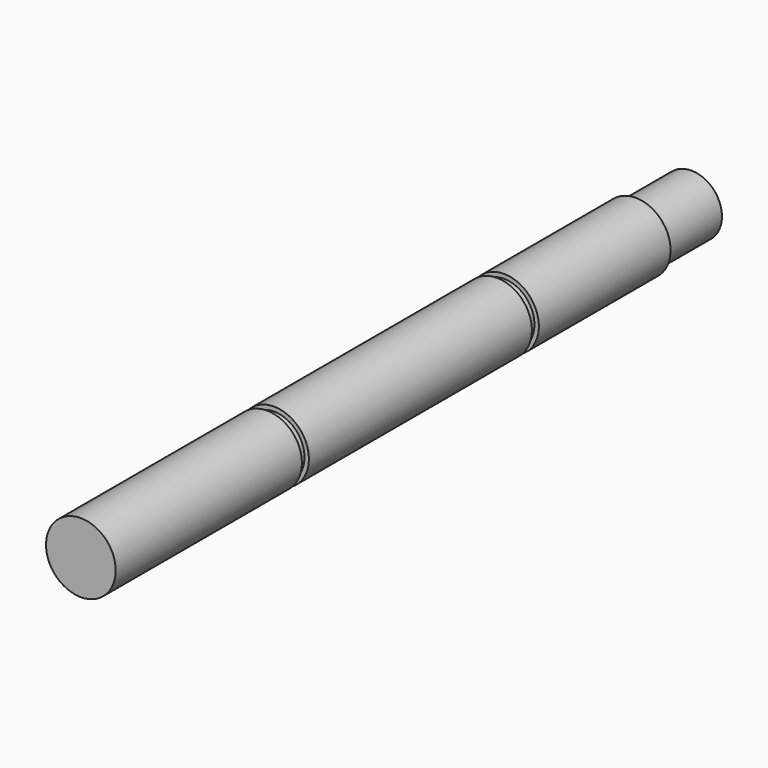
from build123d import *

# Parameters (mm, degrees)
F0_R      = 6.35
F1_DEPTH  = 42.418
F2_R      = 5.55625
F3_DEPTH  = 1.5875
F4_R      = 6.35
F5_DEPTH  = 50.8
F6_R      = 5.55625
F7_DEPTH  = 1.5875
F8_R      = 6.35
F9_DEPTH  = 30.0101
F10_R     = 5.55625
F11_DEPTH = 12.7


with BuildPart() as f1:
    # F0 (on Front) → F1 (new body)
    with BuildSketch(Plane.XZ):
        Circle(F0_R)
    extrude(amount=F1_DEPTH)

    # F2 (on face) → F3 (join)
    with BuildSketch(Plane(origin=(0, 0, 0), x_dir=(-1, 0, 0), z_dir=(0, 1, 0))):
        Circle(F2_R)
    extrude(amount=F3_DEPTH)

    # F4 (on face) → F5 (join)
    with BuildSketch(Plane(origin=(0, 1.5875, 0), x_dir=(-1, 0, 0), z_dir=(0, 1, 0))):
        Circle(F4_R)
    extrude(amount=F5_DEPTH)

    # F6 (on face) → F7 (join)
    with BuildSketch(Plane(origin=(0, 52.3875, 0), x_dir=(-1, 0, 0), z_dir=(0, 1, 0))):
        Circle(F6_R)
    extrude(amount=F7_DEPTH)

    # F8 (on face) → F9 (join)
    with BuildSketch(Plane(origin=(0, 53.975, 0), x_dir=(-1, 0, 0), z_dir=(0, 1, 0))):
        Circle(F8_R)
    extrude(amount=F9_DEPTH)

    # F10 (on face) → F11 (join)
    with BuildSketch(Plane(origin=(0, 83.9851, 0), x_dir=(-1, 0, 0), z_dir=(0, 1, 0))):
        Circle(F10_R)
    extrude(amount=F11_DEPTH)


solid = f1.part
